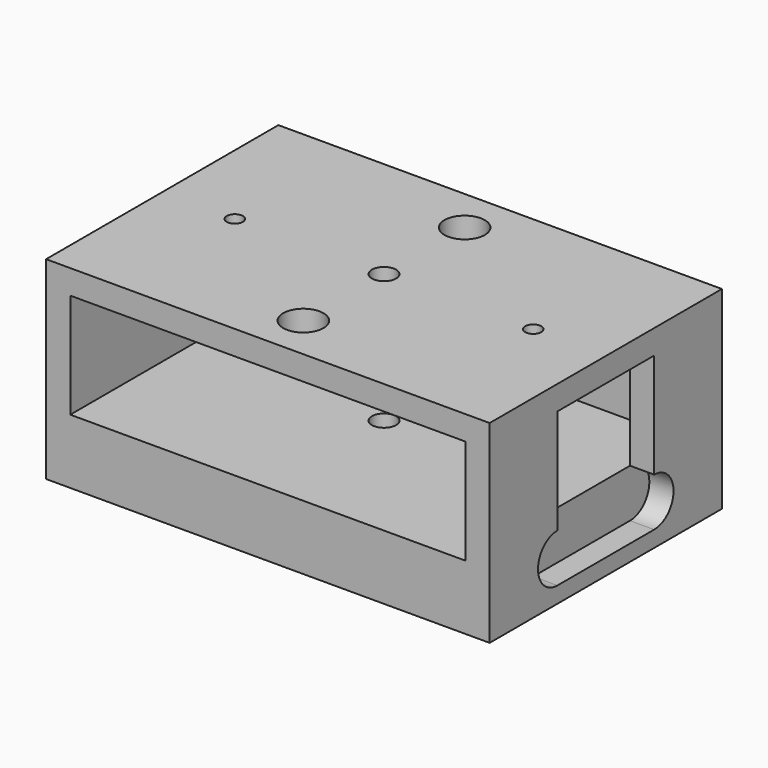
from build123d import *

# Parameters (mm, degrees)
SKETCH_W        = 55
SKETCH_H        = 36
SKETCH_R        = 1.5
PAD_DEPTH       = 24
SKETCH001_R     = 12.5
POCKET_DEPTH    = 5
SKETCH002_W     = 49
SKETCH002_H     = 13
POCKET001_DEPTH = 33
SKETCH003_R     = 1
SKETCH003_R_2   = 2.5
POCKET002_DEPTH = 3
SKETCH004_W     = 15
SKETCH004_H     = 13
POCKET003_DEPTH = 3
POCKET004_DEPTH = 3


with BuildPart() as part:
    # Sketch → Pad (new body)
    with BuildSketch(Plane.XY):
        with Locations((27.5, 18)):
            Rectangle(SKETCH_W, SKETCH_H)
        with Locations((27.5, 18)):
            Circle(SKETCH_R, mode=Mode.SUBTRACT)
    extrude(amount=PAD_DEPTH)

    # Sketch001 → Pocket (cut)
    with BuildSketch(Plane(origin=(0, 0, 0), x_dir=(1, 0, 0), z_dir=(0, 0, -1))):
        with Locations((27.5, -18)):
            Circle(SKETCH001_R)
    extrude(amount=-POCKET_DEPTH, mode=Mode.SUBTRACT)

    # Sketch002 → Pocket001 (cut)
    with BuildSketch(Plane.XZ):
        with Locations((27.5, 14.5)):
            Rectangle(SKETCH002_W, SKETCH002_H)
    extrude(amount=-POCKET001_DEPTH, mode=Mode.SUBTRACT)

    # Sketch003 → Pocket002 (cut)
    with BuildSketch(Plane.XY.offset(24)):
        with Locations((9, 18)):
            Circle(SKETCH003_R)
        with Locations((46, 18)):
            Circle(SKETCH003_R)
        with Locations((27.5, 30.5)):
            Circle(SKETCH003_R_2)
        with Locations((27.5, 5.5)):
            Circle(SKETCH003_R_2)
    extrude(amount=-POCKET002_DEPTH, mode=Mode.SUBTRACT)

    # Sketch004 → Pocket003 (cut)
    with BuildSketch(Plane.YZ.offset(55)):
        with Locations((18, 14.5)):
            Rectangle(SKETCH004_W, SKETCH004_H)
    extrude(amount=-POCKET003_DEPTH, mode=Mode.SUBTRACT)

    # Sketch005 → Pocket004 (cut)
    with BuildSketch(Plane.YZ.offset(55)):
        with BuildLine():
            ThreePointArc((10.5, 8), (7.5, 5), (10.5, 2))
            Line((10.5, 2), (25.5, 2))
            ThreePointArc((25.5, 2), (28.5, 5), (25.5, 8))
            Line((10.5, 8), (25.5, 8))
        make_face()
    extrude(amount=-POCKET004_DEPTH, mode=Mode.SUBTRACT)


solid = part.part
